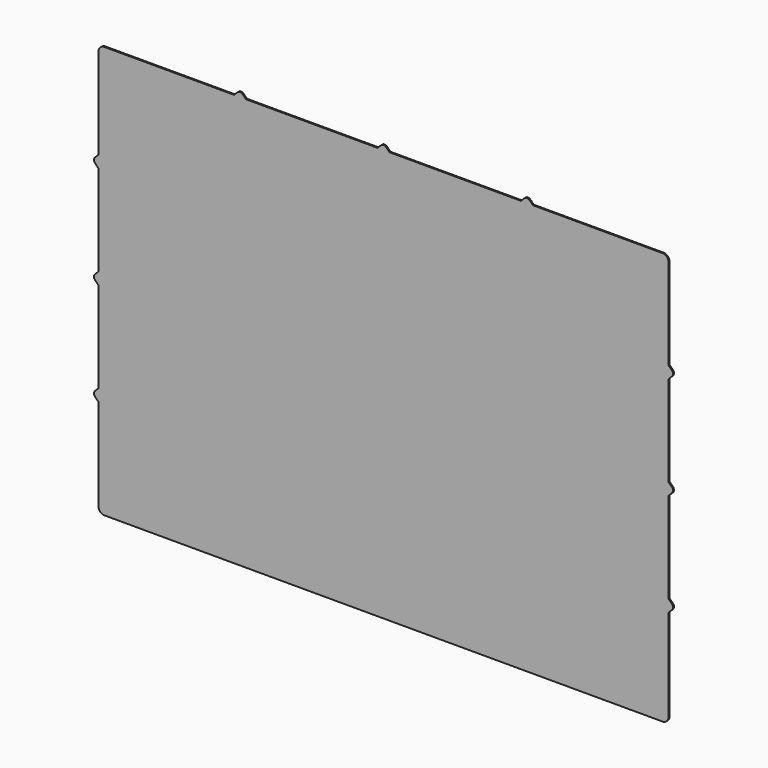
from build123d import *

# Parameters (mm, degrees)
F1_DEPTH = 0.5


with BuildPart() as f1:
    # F0 (on Front) → F1 (new body, symmetric)
    with BuildSketch(Plane.XZ):
        with BuildLine():
            Line((-125, 345), (-233.5, 345))
            ThreePointArc((-233.5, 345), (-237.035534, 343.535534), (-238.5, 340))
            Line((-238.5, 340), (-238.5, 264))
            Line((-238.5, 264), (-241.37868, 261.12132))
            ThreePointArc((-241.37868, 261.12132), (-242.257359, 259), (-241.37868, 256.87868))
            Line((-241.37868, 256.87868), (-238.5, 254))
            Line((-238.5, 254), (-238.5, 178))
            Line((-238.5, 178), (-241.37868, 175.12132))
            ThreePointArc((-241.37868, 175.12132), (-242.257359, 173), (-241.37868, 170.87868))
            Line((-241.37868, 170.87868), (-238.5, 168))
            Line((-238.5, 168), (-238.5, 92))
            Line((-238.5, 92), (-241.37868, 89.12132))
            ThreePointArc((-241.37868, 89.12132), (-242.257359, 87), (-241.37868, 84.87868))
            Line((-241.37868, 84.87868), (-238.5, 82))
            Line((-238.5, 82), (-238.5, 5))
            ThreePointArc((-238.5, 5), (-237.035534, 1.464466), (-233.5, 0))
            Line((-233.5, 0), (233.5, 0))
            ThreePointArc((233.5, 0), (237.035534, 1.464466), (238.5, 5))
            Line((238.5, 5), (238.5, 82))
            Line((238.5, 82), (241.37868, 84.87868))
            ThreePointArc((241.37868, 84.87868), (242.257359, 87), (241.37868, 89.12132))
            Line((241.37868, 89.12132), (238.5, 92))
            Line((238.5, 92), (238.5, 168))
            Line((238.5, 168), (241.37868, 170.87868))
            ThreePointArc((241.37868, 170.87868), (242.257359, 173), (241.37868, 175.12132))
            Line((241.37868, 175.12132), (238.5, 178))
            Line((238.5, 178), (238.5, 254))
            Line((238.5, 254), (241.37868, 256.87868))
            ThreePointArc((241.37868, 256.87868), (242.257359, 259), (241.37868, 261.12132))
            Line((241.37868, 261.12132), (238.5, 264))
            Line((238.5, 264), (238.5, 340))
            ThreePointArc((238.5, 340), (237.035534, 343.535534), (233.5, 345))
            Line((233.5, 345), (125, 345))
            Line((125, 345), (122.12132, 347.87868))
            ThreePointArc((122.12132, 347.87868), (120, 348.757359), (117.87868, 347.87868))
            Line((117.87868, 347.87868), (115, 345))
            Line((115, 345), (5, 345))
            Line((5, 345), (2.12132, 347.87868))
            ThreePointArc((2.12132, 347.87868), (0, 348.757359), (-2.12132, 347.87868))
            Line((-2.12132, 347.87868), (-5, 345))
            Line((-5, 345), (-115, 345))
            Line((-115, 345), (-117.87868, 347.87868))
            ThreePointArc((-117.87868, 347.87868), (-120, 348.757359), (-122.12132, 347.87868))
            Line((-122.12132, 347.87868), (-125, 345))
        make_face()
    extrude(amount=F1_DEPTH, both=True)


solid = f1.part
